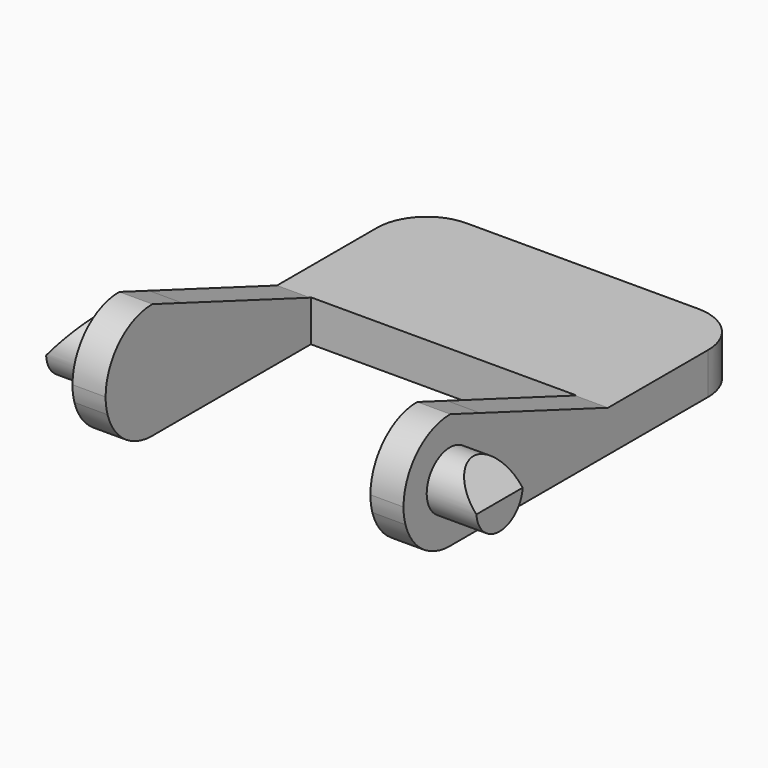
from build123d import *

# Parameters (mm, degrees)
F1_DEPTH  = 20
F2_R      = 1.75
F3_DEPTH  = 3
F6_W      = 16
F6_H      = 35.2884006159
F7_DEPTH  = 12.5
F8_R      = 3
F10_DEPTH = 25


with BuildPart() as f1:
    # F0 (on Right) → F1 (new body)
    with BuildSketch(Plane.YZ):
        with BuildLine():
            ThreePointArc((-4.1024079025, -2.8327919807), (-4.4198799521, -1.3762495526), (-5.3147026709, -0.1839422731))
            Line((-5.3147026709, -0.1839422731), (-7.5675635352, 0.6670345679))
            ThreePointArc((-7.5675635352, 0.6670345679), (-10.0649314774, -0.3456294121), (-11.1024079025, -2.8327919807))
            Line((-11.1024079025, -2.8327919807), (-7.6024079025, -2.8327919807))
            Line((-7.6024079025, -2.8327919807), (-4.1024079025, -2.8327919807))
        make_face()
        with BuildLine():
            Line((-10.9565098687, -3.8327919807), (-7.6024079025, -3.8327919807))
            Line((-7.6024079025, -3.8327919807), (-7.6024079025, -2.8327919807))
            Line((-7.6024079025, -2.8327919807), (-11.1024079025, -2.8327919807))
            ThreePointArc((-11.1024079025, -2.8327919807), (-11.0657413316, -3.3380855182), (-10.9565098687, -3.8327919807))
        make_face()
        with BuildLine():
            Line((-7.6024079025, -3.8327919807), (-4.2483059362, -3.8327919807))
            ThreePointArc((-4.2483059362, -3.8327919807), (-4.1390744734, -3.3380855182), (-4.1024079025, -2.8327919807))
            Line((-4.1024079025, -2.8327919807), (-7.6024079025, -2.8327919807))
            Line((-7.6024079025, -2.8327919807), (-7.6024079025, -3.8327919807))
        make_face()
        with BuildLine():
            Line((-7.6024079025, -6.3327919807), (-7.6024079025, -3.8327919807))
            Line((-7.6024079025, -3.8327919807), (-10.9565098687, -3.8327919807))
            ThreePointArc((-10.9565098687, -3.8327919807), (-9.6940579688, -5.6390350208), (-7.6024079025, -6.3327919807))
        make_face()
        with BuildLine():
            ThreePointArc((-7.6024079025, -6.3327919807), (-5.5107578361, -5.6390350208), (-4.2483059362, -3.8327919807))
            Line((-4.2483059362, -3.8327919807), (-7.6024079025, -3.8327919807))
            Line((-7.6024079025, -3.8327919807), (-7.6024079025, -6.3327919807))
        make_face()
        with BuildLine():
            Line((14.8975920975, -3.8327919807), (4.3451967649, -3.8327919807))
            Line((4.3451967649, -3.8327919807), (-4.2483059362, -3.8327919807))
            ThreePointArc((-4.2483059362, -3.8327919807), (-5.5107578361, -5.6390350208), (-7.6024079025, -6.3327919807))
            Line((-7.6024079025, -6.3327919807), (14.8975920975, -6.3327919807))
            Line((14.8975920975, -6.3327919807), (14.8975920975, -3.8327919807))
        make_face()
        with BuildLine():
            Line((-4.2483059362, -3.8327919807), (4.3451967649, -3.8327919807))
            Line((4.3451967649, -3.8327919807), (-5.3147026709, -0.1839422731))
            ThreePointArc((-5.3147026709, -0.1839422731), (-4.4198799521, -1.3762495526), (-4.1024079025, -2.8327919807))
            ThreePointArc((-4.1024079025, -2.8327919807), (-4.1390744734, -3.3380855182), (-4.2483059362, -3.8327919807))
        make_face()
    extrude(amount=F1_DEPTH)



with BuildPart() as f3:
    # F2 (on face) → F3 (new body)
    with BuildSketch(Plane(origin=(0, 0, 0), x_dir=(0, -1, 0), z_dir=(-1, 0, 0))):
        with Locations((7.6024079025, -2.8327919807)):
            Circle(F2_R)
    extrude(amount=F3_DEPTH)


with BuildPart() as f1_1:
    add(f1.part)

    add(f3.part)  # F5 merges F3
    # F5: F3 across plane
    add(f3.part.mirror(Plane.YZ.offset(10)))

    # F6 (on face) → F7 (cut, symmetric)
    with BuildSketch(Plane.XY.offset(-3.8327919807)):
        with Locations((10, -13.2466082104)):
            Rectangle(F6_W, F6_H)
    extrude(amount=F7_DEPTH, both=True, mode=Mode.SUBTRACT)

    # F8
    f8_edges = [f1_1.edges().sort_by_distance(p)[0] for p in [
        (20, 14.897592, -5.082792),
        (0, 14.897592, -5.082792),
    ]]
    fillet(f8_edges, radius=F8_R)


with BuildPart() as f10:
    # F9 (on Front) → F10 (new body)
    with BuildSketch(Plane.XZ):
        Polygon((20.3534542639, 3.3057429828), (20.3534542639, 0.1906278993), (23.9095985889, -4.0474198759), (23.9095985889, 7.1602235548), (-3.9095985889, 7.1602235548), (-3.9095985889, -4.0474198759), (-0.3534542639, 0.1906278993), (-0.3534542639, 3.3057429828), align=None)
    extrude(amount=F10_DEPTH)


with BuildPart() as f1_2:
    add(f1_1.part)

    # F11: cut F10
    add(f10.part, mode=Mode.SUBTRACT)


solid = f1_2.part
